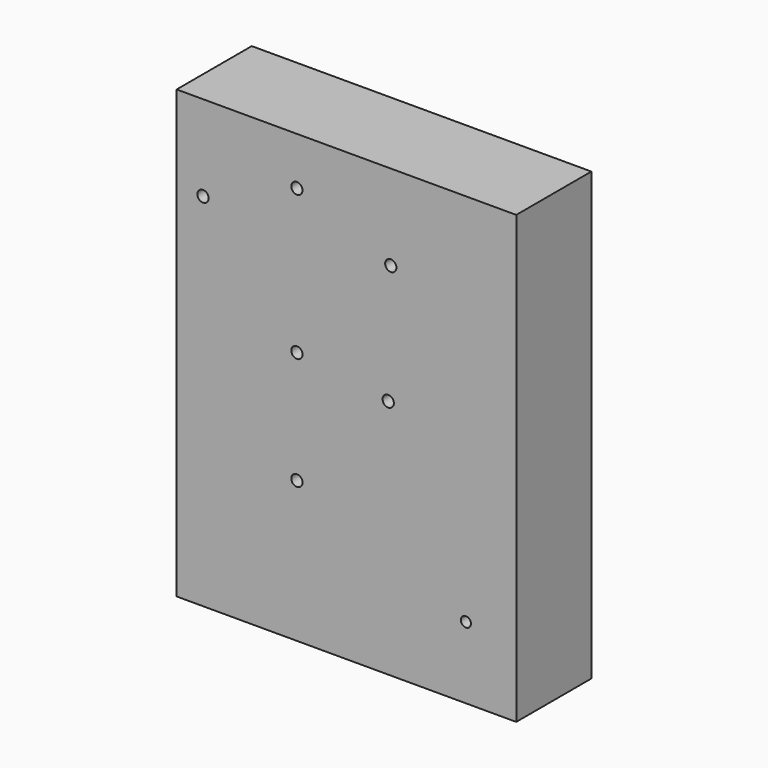
from build123d import *

# Parameters (mm, degrees)
F0_W     = 90.427961
F0_H     = 118.848171
F0_R     = 1.342773
F0_R_2   = 1.5
F1_DEPTH = 25
F2_R     = 1.5
F3_DEPTH = 25


with BuildPart() as f1:
    # F0 (on Front) → F1 (new body)
    with BuildSketch(Plane.XZ):
        with Locations((13.190647, -50.225)):
            Rectangle(F0_W, F0_H)
        with Locations((45, -90.556594)):
            Circle(F0_R, mode=Mode.SUBTRACT)
        with Locations((-25, -13.556594)):
            Circle(F0_R_2, mode=Mode.SUBTRACT)
        with Locations((0, -3.556594)):
            Circle(F0_R_2, mode=Mode.SUBTRACT)
        with Locations((24.3112, -45.556594)):
            Circle(F0_R_2, mode=Mode.SUBTRACT)
        with Locations((25, -13.556594)):
            Circle(F0_R_2, mode=Mode.SUBTRACT)
    extrude(amount=F1_DEPTH)

    # F2 (on face) → F3 (cut)
    with BuildSketch(Plane.XZ.offset(25)):
        with Locations((0, -42.056594)):
            Circle(F2_R)
        with Locations((0, -72.056594)):
            Circle(F2_R)
    extrude(amount=-F3_DEPTH, mode=Mode.SUBTRACT)


solid = f1.part
